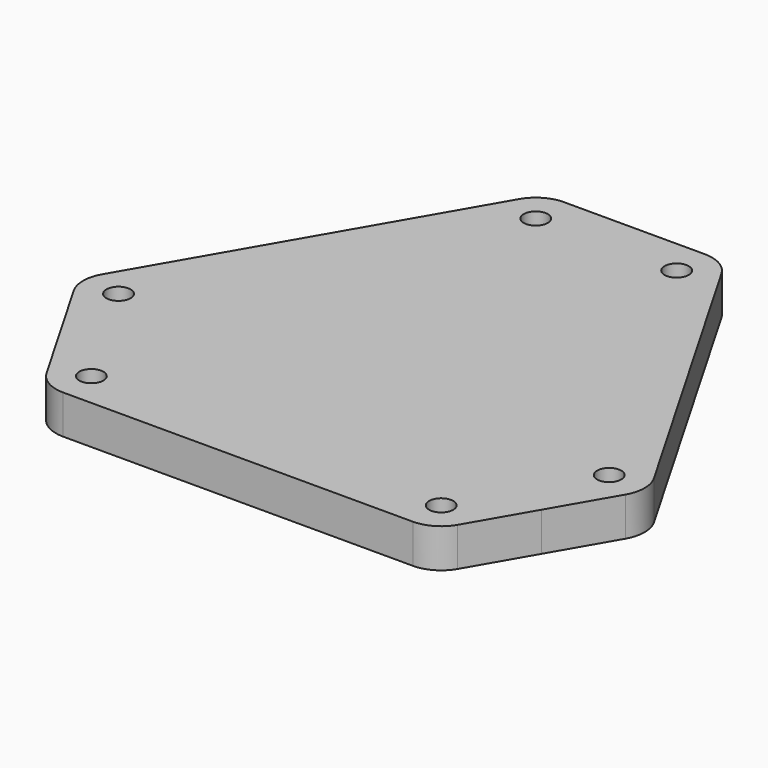
from build123d import *

# Parameters (mm, degrees)
F0_R     = 1.55
F1_DEPTH = 5
F2_COUNT = 3
F2_ANGLE = 240


with BuildPart() as f1:
    # F0 (on Top) → F1 (new body)
    with BuildSketch(Plane.XY):
        with BuildLine():
            ThreePointArc((-26.440416, -25.727079), (-24.775, -27.392494), (-22.5, -28.002079))
            Line((-22.5, -28.002079), (22.5, -28.002079))
            ThreePointArc((22.5, -28.002079), (24.775, -27.392494), (26.440416, -25.727079))
            Line((26.440416, -25.727079), (30.970464, -17.880805))
            Line((30.970464, -17.880805), (0, 0))
            Line((0, 0), (-30.970464, -17.880805))
            Line((-30.970464, -17.880805), (-26.440416, -25.727079))
        make_face()
        with Locations((-22.5, -23.452079)):
            Circle(F0_R, mode=Mode.SUBTRACT)
        with Locations((22.5, -23.452079)):
            Circle(F0_R, mode=Mode.SUBTRACT)
    extrude(amount=F1_DEPTH)

    # F2: F1 ×3 about axis
    f2_axis = Axis((0, 0, 2.5), (0, 0, 1))


with BuildPart() as f1_1:
    add(f1.part)
    for i in range(1, F2_COUNT):
        add(f1.part.rotate(f2_axis, i * F2_ANGLE / (F2_COUNT - 1)))


solid = f1_1.part
